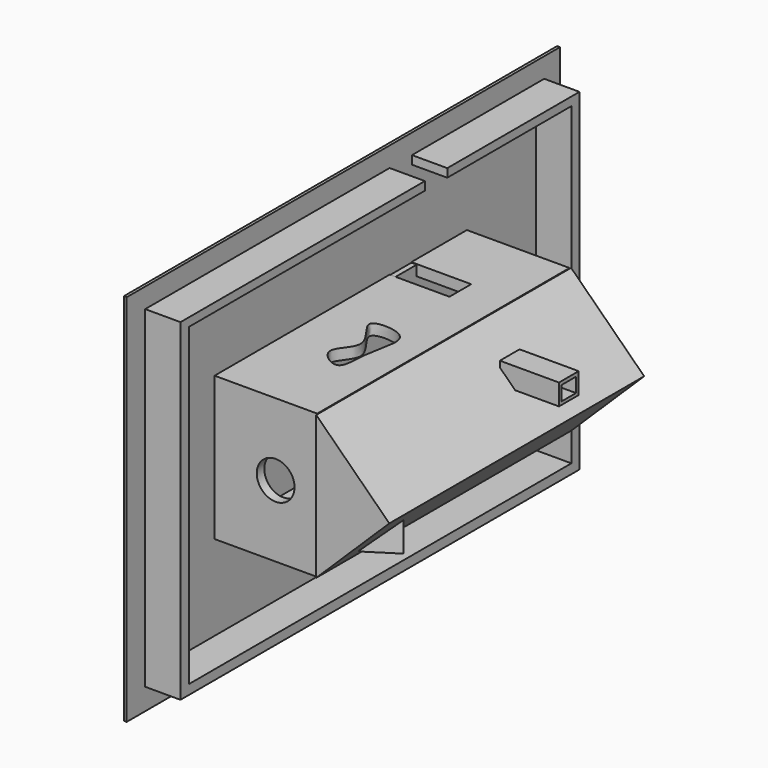
from build123d import *

# Parameters (mm, degrees)
F0_W      = 76.8164917827
F0_H      = 35.0272394717
F1_DEPTH  = 25
F4_DEPTH  = 77.6
F6_DEPTH  = 113
F7_W      = 7.8439377248
F7_H      = 10.683985427
F8_DEPTH  = 25
F9_W      = 14.5757179707
F9_H      = 6.6223032773
F10_DEPTH = 25
F11_R     = 4.6046356053
F12_DEPTH = 25
F14_DEPTH = 25
F16_W     = 5.9973224998
F16_H     = 5.1290784031
F17_DEPTH = 14.4
F18_W     = 4.4231768698
F18_H     = 3.5153124481
F19_DEPTH = 25
F20_W     = 76.7492093146
F20_H     = 34.8965749145
F21_DEPTH = 1.3
F22_W     = 131.9140568376
F22_H     = 91.0675730556
F23_DEPTH = 0.7
F24_W     = 121.4804798365
F24_H     = 80.9869877994
F24_W_2   = 116.401642561
F24_H_2   = 76.5944737941
F25_DEPTH = 8.6
F26_W     = 8.6
F26_H     = 6.8185403943
F27_DEPTH = 9.3
F30_DEPTH = 10.5
F32_DEPTH = 12.65
F33_W     = 6.4838747494
F33_H     = 13.2119907066
F34_DEPTH = 25


with BuildPart() as f1:
    # F0 (on Right) → F1 (new body)
    with BuildSketch(Plane.YZ):
        with Locations((7.7086985111, 17.5136197358)):
            Rectangle(F0_W, F0_H)
    extrude(amount=F1_DEPTH)

    # F5 (on face) → F6 (cut)
    with BuildSketch(Plane(origin=(0, 0, 0), x_dir=(0, -1, 0), z_dir=(-1, 0, 0))):
        Polygon((28.397353366, 2.1544757765), (28.397353366, 32.3902778327), (-43.9755767584, 32.3902778327), (-43.9755767584, 20.4346366227), (-43.9755767584, 12.7295535058), (-43.9755767584, 2.1544757765), align=None)
    extrude(amount=-F6_DEPTH, mode=Mode.SUBTRACT)

    # F7 (on face) → F8 (cut)
    with BuildSketch(Plane(origin=(0, 0, 0), x_dir=(1, 0, 0), z_dir=(0, 0, -1))):
        with Locations((14.097250998, -17.4077088013)):
            Rectangle(F7_W, F7_H)
    extrude(amount=-F8_DEPTH, mode=Mode.SUBTRACT)

    # F9 (on face) → F10 (cut)
    with BuildSketch(Plane.XY.offset(35.0272394717)):
        with Locations((7.2878589854, 25.9091816843)):
            Rectangle(F9_W, F9_H)
    extrude(amount=-F10_DEPTH, mode=Mode.SUBTRACT)

    # F11 (on face) → F12 (cut)
    with BuildSketch(Plane.XZ.offset(30.6995473802)):
        with Locations((14.8750739172, 17.4272339791)):
            Circle(F11_R)
    extrude(amount=-F12_DEPTH, mode=Mode.SUBTRACT)

    # F13 (on face) → F14 (cut)
    with BuildSketch(Plane.XY.offset(35.0272394717)):
        with BuildLine():
            add(Edge.make_bspline(
                [(14.5585378632, 5.3374832496), (16.4432223112, 4.970494678), (19.5335391994, 2.9443472499), (16.3368578812, -5.5292212959), (17.2689532903, -15.3294419765), (7.7478224776, -8.7886932475), (16.9188142819, -3.3946672349), (6.4593634536, 5.4082025498), (12.5736357041, 5.7239863636), (14.5585378632, 5.3374832496)],
                knots=[0, 0, 0, 0, 0.1182682615, 0.2855748906, 0.4318963462, 0.5683208229, 0.7132399397, 0.8754428478, 1, 1, 1, 1], degree=3))
        make_face()
    extrude(amount=-F14_DEPTH, mode=Mode.SUBTRACT)

    # F20 (on Right) → F21 (join)
    with BuildSketch(Plane.YZ):
        with Locations((7.7353324741, 17.4482874572)):
            Rectangle(F20_W, F20_H)
    extrude(amount=F21_DEPTH)

    # F22 (on Right) → F23 (join)
    with BuildSketch(Plane.YZ):
        with Locations((8.50334391, 17.1913476661)):
            Rectangle(F22_W, F22_H)
    extrude(amount=-F23_DEPTH)

    # F24 (on face) → F25 (join)
    with BuildSketch(Plane.YZ):
        with Locations((8.9151412249, 17.3972453922)):
            Rectangle(F24_W, F24_H)
        with Locations((8.9837759733, 17.5345083699)):
            Rectangle(F24_W_2, F24_H_2, mode=Mode.SUBTRACT)
    extrude(amount=F25_DEPTH)

    # F26 (on face) → F27 (cut)
    with BuildSketch(Plane.XY.offset(57.8907392919)):
        with Locations((4.3, 25.9987283498)):
            Rectangle(F26_W, F26_H)
    extrude(amount=-F27_DEPTH, mode=Mode.SUBTRACT)

    # F33 (on face) → F34 (cut)
    with BuildSketch(Plane(origin=(0, 46.1169444025, 0), x_dir=(-1, 0, 0), z_dir=(0, 1, 0))):
        with Locations((-10.7512504328, 18.3495716192)):
            Rectangle(F33_W, F33_H)
    extrude(amount=-F34_DEPTH, mode=Mode.SUBTRACT)


with BuildPart() as f4:
    # F3 (on offset) → F4 (new body)
    with BuildSketch(Plane.XZ.offset(31.0995473802)):
        Polygon((25.0851362944, 34.9248088896), (25.0851362944, 0), (42.8811361204, 17.4624044448), align=None)
    extrude(amount=-F4_DEPTH)

    # F16 (on offset) → F17 (join)
    with BuildSketch(Plane.YZ.offset(46.4)):
        with Locations((19.1611722112, 27.0335683599)):
            Rectangle(F16_W, F16_H)
    extrude(amount=-F17_DEPTH)

    # F18 (on face) → F19 (cut)
    with BuildSketch(Plane.YZ.offset(46.4)):
        with Locations((19.133512862, 26.9918525591)):
            Rectangle(F18_W, F18_H)
    extrude(amount=-F19_DEPTH, mode=Mode.SUBTRACT)

    # F29 (on offset) → F30 (join)
    with BuildSketch(Plane.XY.offset(3.3)):
        Polygon((28.6128576845, -22.4952923471), (35.7585884631, -17.9356448352), (28.6128576845, -13.2752452046), align=None)
    extrude(amount=F30_DEPTH)

    # F31 (on face) → F32 (cut)
    with BuildSketch(Plane(origin=(0, 0, 3.3), x_dir=(1, 0, 0), z_dir=(0, 0, -1))):
        Polygon((34.4042517245, 17.9356448352), (29.2856078595, 21.2162099779), (29.2856078595, 14.7136887535), align=None)
    extrude(amount=-F32_DEPTH, mode=Mode.SUBTRACT)


solid = Compound([f1.part, f4.part])
